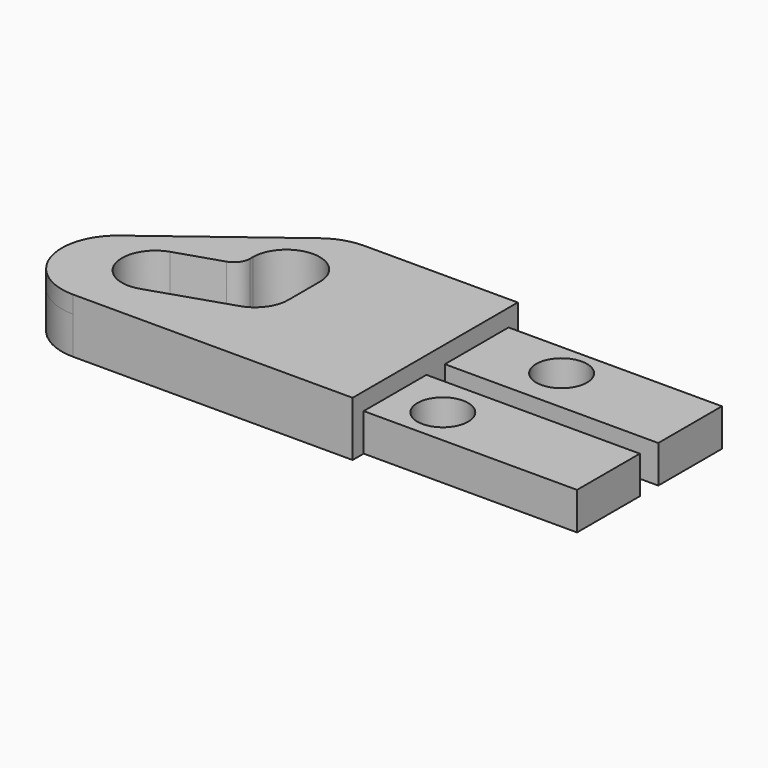
from build123d import *

# Parameters (mm, degrees)
F0_W     = 18.5
F0_H     = 6.9
F0_H_2   = 6.8
F1_DEPTH = 3.25
F3_DEPTH = 1.5
F4_R     = 5
F6_D     = 4.4
F8_D     = 4.4


with BuildPart() as f1:
    # F0 (on Top) → F1 (new body)
    with BuildSketch(Plane.XY):
        with BuildLine():
            Line((-14.6952698517, 19.7279642442), (-29.6952698517, 19.7279642442))
            Line((-29.6952698517, 19.7279642442), (-41.8622746435, 10.5594685057))
            ThreePointArc((-41.8622746435, 10.5594685057), (-43.1340644308, 9.1283890545), (-43.7536388636, 7.3168799651))
            Line((-43.7536388636, 7.3168799651), (-43.7536388636, 6.0480798558))
            ThreePointArc((-43.7536388636, 6.0480798558), (-42.1412711242, 3.0324095441), (-38.9407541854, 1.8279642442))
            Line((-38.9407541854, 1.8279642442), (-14.6952698517, 1.8279642442))
            Line((-14.6952698517, 1.8279642442), (-14.6952698517, 3.0279642442))
            Line((-14.6952698517, 3.0279642442), (-14.6952698517, 9.8279642442))
            Line((-14.6952698517, 9.8279642442), (-14.6952698517, 11.8279642442))
            Line((-14.6952698517, 11.8279642442), (-14.6952698517, 18.7279642442))
            Line((-14.6952698517, 18.7279642442), (-14.6952698517, 19.7279642442))
        make_face()
        with BuildLine():
            ThreePointArc((-35.8858862752, 5.3242355882), (-39.5438948337, 7.153269317), (-37.7352474887, 10.8214004184))
            Line((-37.7352474887, 10.8214004184), (-33.8307472386, 12.0875827919))
            ThreePointArc((-33.8307472386, 12.0875827919), (-33.1317830892, 12.5942209035), (-32.8564297306, 13.4123978931))
            Line((-32.8564297306, 13.4123978931), (-32.8562668471, 13.7279642442))
            ThreePointArc((-32.8562668471, 13.7279642442), (-29.9562668471, 16.6279642442), (-27.0562668471, 13.7279642442))
            Line((-27.0562668471, 13.7279642442), (-27.0562668471, 10.3279642442))
            ThreePointArc((-27.0562668471, 10.3279642442), (-27.5890997188, 8.6388139758), (-29.0068091948, 7.5770986937))
            Line((-29.0068091948, 7.5770986937), (-35.8858862752, 5.3242355882))
        make_face(mode=Mode.SUBTRACT)
        with Locations((-5.4452698517, 15.2779642442)):
            Rectangle(F0_W, F0_H)
        with BuildLine():
            Line((-43.7536388636, 6.0480798558), (-43.7536388636, 7.3168799651))
            ThreePointArc((-43.7536388636, 7.3168799651), (-43.784850924, 7.0003621876), (-43.7952698517, 6.6824799105))
            ThreePointArc((-43.7952698517, 6.6824799105), (-43.784850924, 6.3645976333), (-43.7536388636, 6.0480798558))
        make_face()
        with Locations((-5.4452698517, 6.4279642442)):
            Rectangle(F0_W, F0_H_2)
    extrude(amount=F1_DEPTH)

    # F2 (on face) → F3 (join)
    with BuildSketch(Plane.XY.offset(3.25)):
        with BuildLine():
            Line((-14.6952698517, 18.7279642442), (-14.6952698517, 19.7279642442))
            Line((-14.6952698517, 19.7279642442), (-29.6952698517, 19.7279642442))
            Line((-29.6952698517, 19.7279642442), (-41.8622746435, 10.5594685057))
            ThreePointArc((-41.8622746435, 10.5594685057), (-43.5444062264, 5.142119485), (-38.9407541854, 1.8279642442))
            Line((-38.9407541854, 1.8279642442), (-14.6952698517, 1.8279642442))
            Line((-14.6952698517, 1.8279642442), (-14.6952698517, 3.0279642442))
            Line((-14.6952698517, 3.0279642442), (-14.6952698517, 9.8279642442))
            Line((-14.6952698517, 9.8279642442), (-14.6952698517, 11.8279642442))
            Line((-14.6952698517, 11.8279642442), (-14.6952698517, 18.7279642442))
        make_face()
        with BuildLine():
            ThreePointArc((-27.0562668471, 10.3279642442), (-27.5890997188, 8.6388139758), (-29.0068091948, 7.5770986937))
            Line((-29.0068091948, 7.5770986937), (-35.8858862752, 5.3242355882))
            ThreePointArc((-35.8858862752, 5.3242355882), (-39.5438948337, 7.153269317), (-37.7352474887, 10.8214004184))
            Line((-37.7352474887, 10.8214004184), (-33.8307472386, 12.0875827919))
            ThreePointArc((-33.8307472386, 12.0875827919), (-33.1317830892, 12.5942209035), (-32.8564297306, 13.4123978931))
            Line((-32.8564297306, 13.4123978931), (-32.8562668471, 13.7279642442))
            ThreePointArc((-32.8562668471, 13.7279642442), (-29.9562668471, 16.6279642442), (-27.0562668471, 13.7279642442))
            Line((-27.0562668471, 13.7279642442), (-27.0562668471, 10.3279642442))
        make_face(mode=Mode.SUBTRACT)
    extrude(amount=F3_DEPTH)

    # F4
    f4_edges = [f1.edges().sort_by_distance(p)[0] for p in [
        (-29.69527, 19.727964, 2.375),
    ]]
    fillet(f4_edges, radius=F4_R)

    # F6 (through all)
    with Locations(Plane.XY.offset(3.25)):
        with Locations((-7.6952698517, 15.7279642442)):
            Hole(F6_D / 2)

    # F8 (through all)
    with Locations(Plane.XY.offset(3.25)):
        with Locations((-10.3952698517, 6.2279642442)):
            Hole(F8_D / 2)


solid = f1.part
